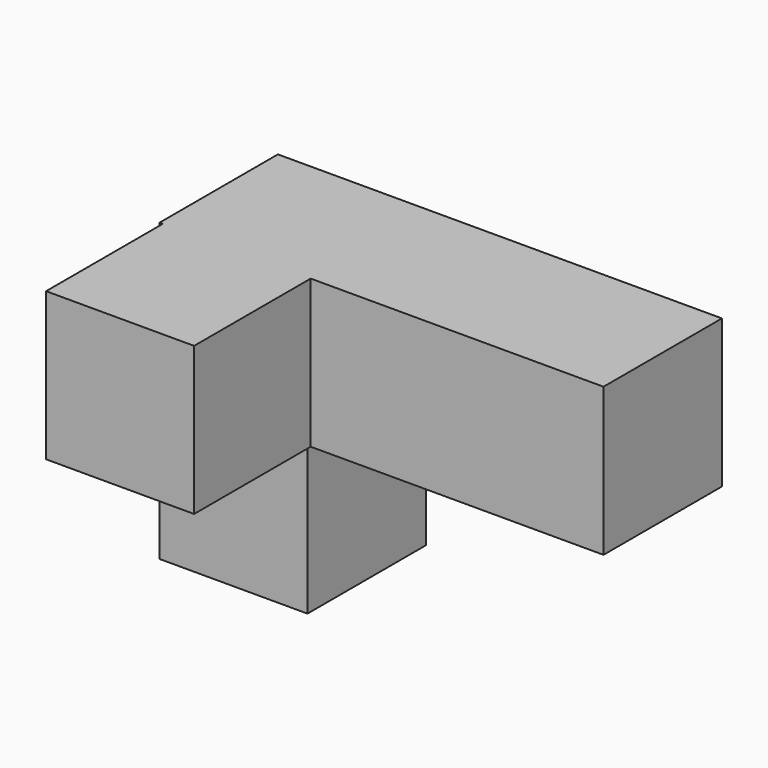
from build123d import *

# Parameters (mm, degrees)
F0_W     = 25.4
F0_H     = 25.4
F1_DEPTH = 25.4
F2_W     = 25.4
F2_H     = 25.4
F3_DEPTH = 25.4


with BuildPart() as f1:
    # F0 (on Front) → F1 (new body)
    with BuildSketch(Plane.XZ):
        with Locations((-38.1, 12.7)):
            Rectangle(F0_W, F0_H)
        with Locations((-38.1, -12.7)):
            Rectangle(F0_W, F0_H)
        with Locations((-12.7, 12.7)):
            Rectangle(F0_W, F0_H)
        with Locations((12.7, 12.7)):
            Rectangle(F0_W, F0_H)
    extrude(amount=F1_DEPTH)

    # F2 (on Top) → F3 (join)
    with BuildSketch(Plane.XY):
        with Locations((-37.550894, -37.707685)):
            Rectangle(F2_W, F2_H)
    extrude(amount=F3_DEPTH)


solid = f1.part
